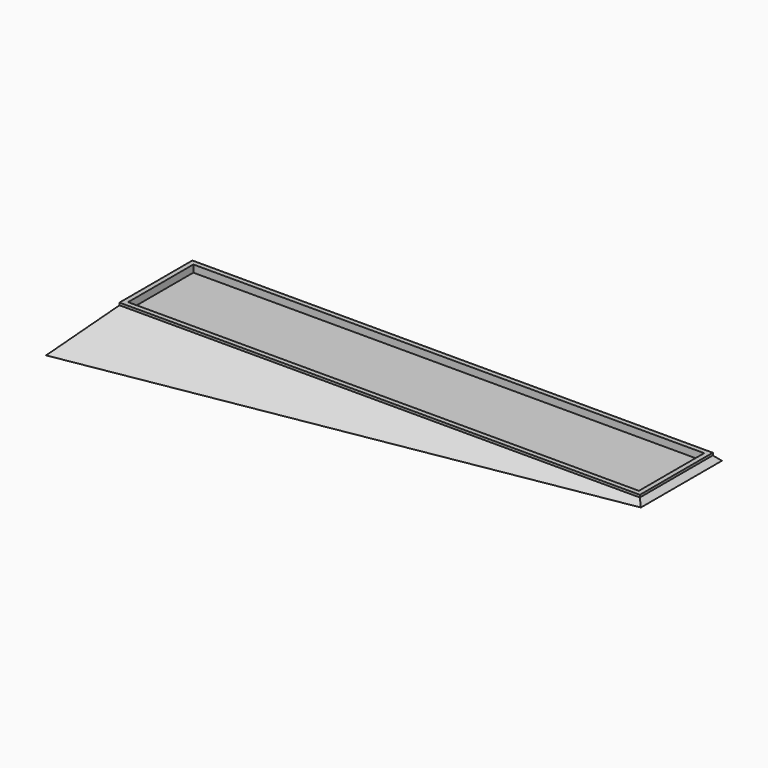
from build123d import *

# Parameters (mm, degrees)
F0_W          = 217
F0_H          = 38
F0_W_2        = 213
F0_H_2        = 34
F1_DEPTH      = 1
F2_DEPTH      = 17
F2_TAPER      = -45
F3_DEPTH      = 2
F5_DEPTH      = 53.0010001
F5_DEPTH_BACK = 25


with BuildPart() as f1:
    # F0 (on Top) → F1 (new body)
    with BuildSketch(Plane.XY):
        with Locations((106.5, 17)):
            Rectangle(F0_W, F0_H)
        with Locations((106.5, 17)):
            Rectangle(F0_W_2, F0_H_2, mode=Mode.SUBTRACT)
    extrude(amount=F1_DEPTH)

    # F0 (on Top) → F2 (join)
    with BuildSketch(Plane.XY):
        with Locations((106.5, 17)):
            Rectangle(F0_W, F0_H)
        with Locations((106.5, 17)):
            Rectangle(F0_W_2, F0_H_2, mode=Mode.SUBTRACT)
        with Locations((106.5, 17)):
            Rectangle(F0_W_2, F0_H_2)
    extrude(amount=-F2_DEPTH, taper=F2_TAPER)

    # F0 (on Top) → F3 (cut)
    with BuildSketch(Plane.XY):
        with Locations((106.5, 17)):
            Rectangle(F0_W_2, F0_H_2)
    extrude(amount=-F3_DEPTH, mode=Mode.SUBTRACT)

    # F4 (on Front) → F5 (cut, two sides)
    with BuildSketch(Plane.XZ) as f5_sk:
        Polygon((217.1184106235, -2.1184106235), (-19, -17), (234.9526717854, -19.9526717854), align=None)
    extrude(amount=-F5_DEPTH, mode=Mode.SUBTRACT)
    extrude(f5_sk.sketch, amount=F5_DEPTH_BACK, mode=Mode.SUBTRACT)


solid = f1.part
